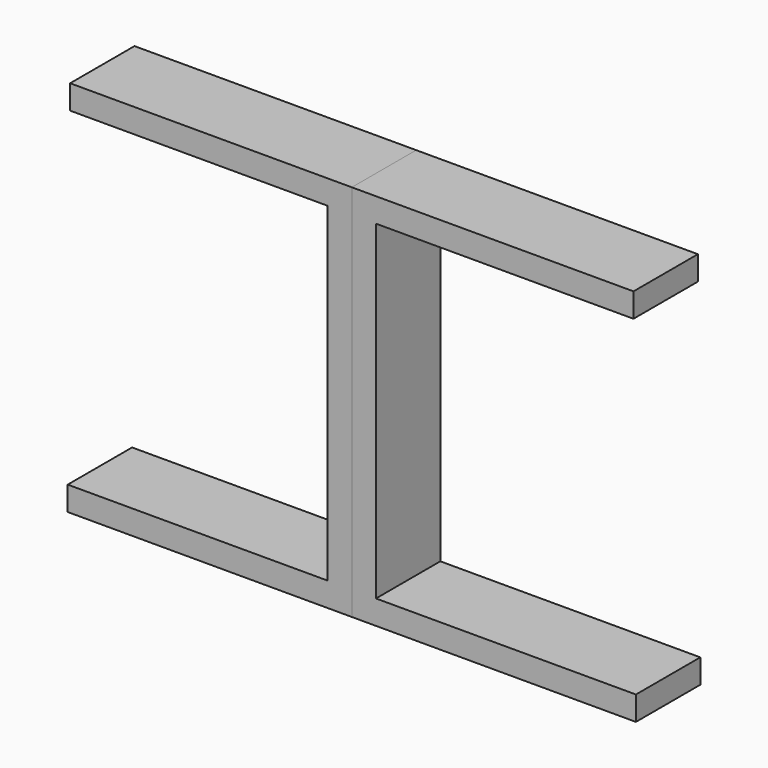
from build123d import *

# Parameters (mm, degrees)
F0_W     = 32
F0_H     = 3
F0_W_2   = 3
F0_H_2   = 41
F0_W_3   = 32.299999
F1_DEPTH = 10


with BuildPart() as f1:
    # F0 (on Front) → F1 (new body)
    with BuildSketch(Plane.XZ):
        with Locations((-17.012699, 31.355872)):
            Rectangle(F0_W, F0_H)
        with Locations((0.487301, 31.355872)):
            Rectangle(F0_W_2, F0_H)
        with Locations((0.487301, 9.355872)):
            Rectangle(F0_W_2, F0_H_2)
        with Locations((0.487301, -12.644128)):
            Rectangle(F0_W_2, F0_H)
        with Locations((-17.162698, -12.644128)):
            Rectangle(F0_W_3, F0_H)
    extrude(amount=F1_DEPTH)


with BuildPart() as f2_1:
    # F2: instance of F1
    add(f1.part.mirror(Plane(origin=(1.987301, -5, 9.355872), x_dir=(0, 1, 0), z_dir=(1, 0, 0))))


solid = Compound([f1.part, f2_1.part])
